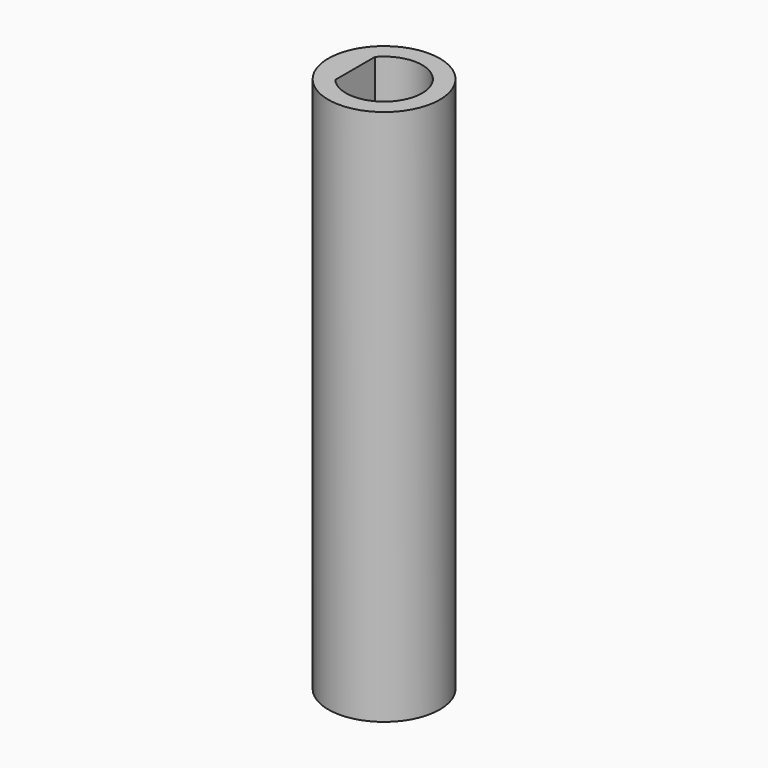
from build123d import *

# Parameters (mm, degrees)
F0_R     = 3.95
F1_DEPTH = 38


with BuildPart() as f1:
    # F0 (on Top) → F1 (new body)
    with BuildSketch(Plane.XY):
        Circle(F0_R)
        with BuildLine():
            ThreePointArc((-2.05, 1.757128), (0.93675, 2.532291), (2.7, 0))
            ThreePointArc((2.7, 0), (0.93675, -2.532291), (-2.05, -1.757128))
            ThreePointArc((-2.05, -1.757128), (-2.7, 0), (-2.05, 1.757128))
        make_face(mode=Mode.SUBTRACT)
        with BuildLine():
            Line((-2.05, -1.757128), (-2.05, 1.757128))
            ThreePointArc((-2.05, 1.757128), (-2.7, 0), (-2.05, -1.757128))
        make_face()
    extrude(amount=F1_DEPTH)


solid = f1.part
